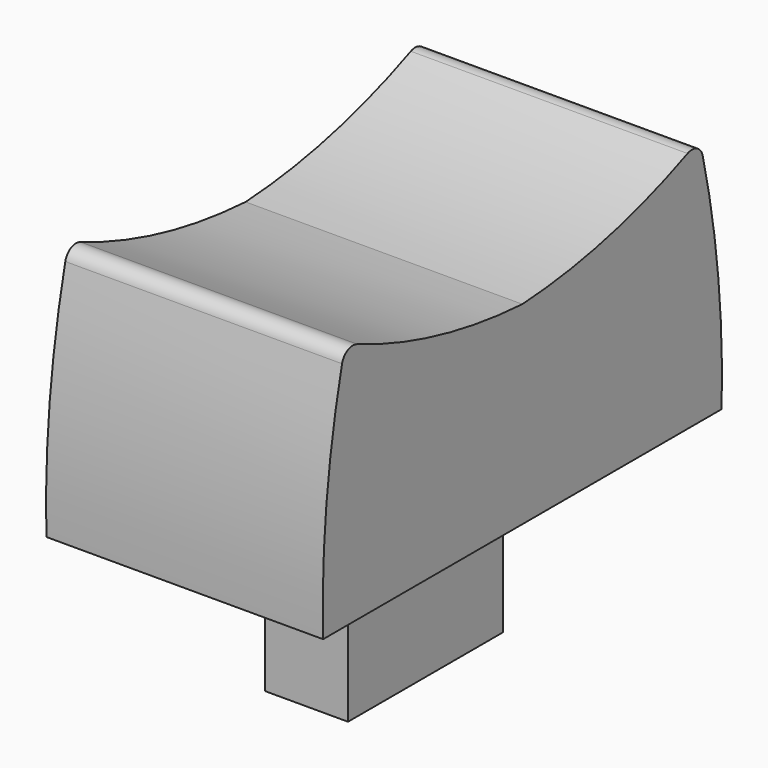
from build123d import *

# Parameters (mm, degrees)
F1_DEPTH = 5
F2_W     = 3
F2_H     = 7
F3_DEPTH = 6


with BuildPart() as f1:
    # F0 (on Right) → F1 (new body, symmetric)
    with BuildSketch(Plane.YZ):
        with BuildLine():
            ThreePointArc((0, 4.6000001004), (-3.8076052812, 5.1521296368), (-7.460796192, 6.3591512489))
            ThreePointArc((-7.460796192, 6.3591512489), (-7.8828526102, 6.3468033059), (-8.1449647452, 6.0157726117))
            ThreePointArc((-8.1449647452, 6.0157726117), (-8.8517929002, 1.8362640656), (-9, -2.3999998996))
            Line((-9, -2.3999998996), (0, -2.3999998996))
            Line((0, -2.3999998996), (9, -2.3999998996))
            ThreePointArc((9, -2.3999998996), (8.8517929002, 1.8362640656), (8.1449647452, 6.0157726117))
            ThreePointArc((8.1449647452, 6.0157726117), (7.8828526102, 6.3468033059), (7.460796192, 6.3591512489))
            ThreePointArc((7.460796192, 6.3591512489), (3.8076052812, 5.1521296368), (0, 4.6000001004))
        make_face()
    extrude(amount=F1_DEPTH, both=True)

    # F2 (on face) → F3 (join)
    with BuildSketch(Plane(origin=(0, 0, -2.3999998996), x_dir=(1, 0, 0), z_dir=(0, 0, -1))):
        Rectangle(F2_W, F2_H)
    extrude(amount=F3_DEPTH)


solid = f1.part
